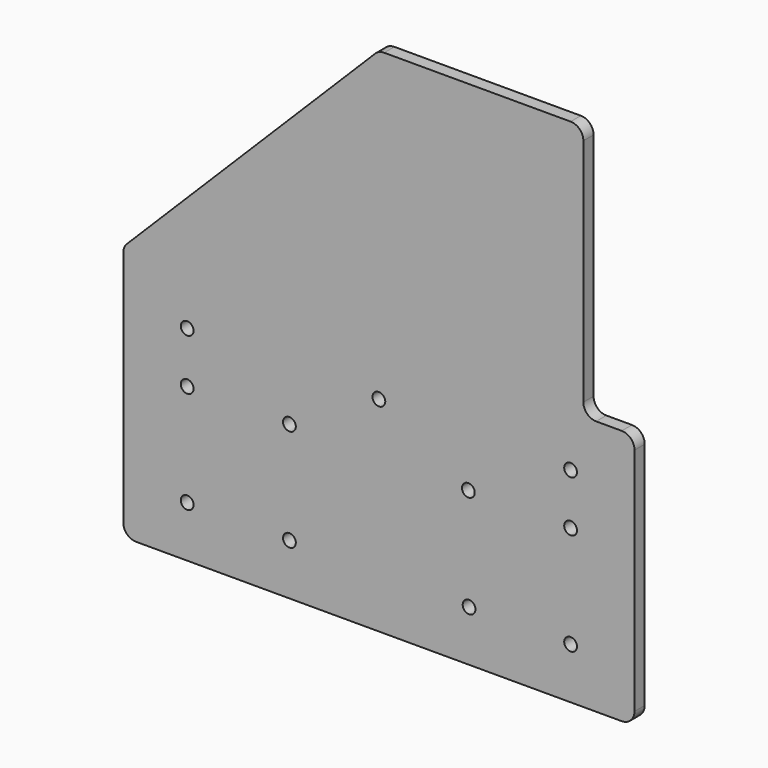
from build123d import *

# Parameters (mm, degrees)
F0_R     = 2.5
F1_DEPTH = 5


with BuildPart() as f1:
    # F0 (on Front) → F1 (new body)
    with BuildSketch(Plane.XZ):
        with BuildLine():
            Line((0, 97.928932), (0, 5))
            ThreePointArc((0, 5), (1.464466, 1.464466), (5, 0))
            Line((5, 0), (195, 0))
            ThreePointArc((195, 0), (198.535534, 1.464466), (200, 5))
            Line((200, 5), (200, 95))
            ThreePointArc((200, 95), (198.535534, 98.535534), (195, 100))
            Line((195, 100), (185, 100))
            ThreePointArc((185, 100), (181.464466, 101.464466), (180, 105))
            Line((180, 105), (180, 195))
            ThreePointArc((180, 195), (178.535534, 198.535534), (175, 200))
            Line((175, 200), (102.071068, 200))
            ThreePointArc((102.071068, 200), (100.157651, 199.619398), (98.535534, 198.535534))
            Line((98.535534, 198.535534), (1.464466, 101.464466))
            ThreePointArc((1.464466, 101.464466), (0.380602, 99.842349), (0, 97.928932))
        make_face()
        with Locations((25, 20)):
            Circle(F0_R, mode=Mode.SUBTRACT)
        with Locations((65, 20)):
            Circle(F0_R, mode=Mode.SUBTRACT)
        with Locations((25, 60)):
            Circle(F0_R, mode=Mode.SUBTRACT)
        with Locations((25, 80)):
            Circle(F0_R, mode=Mode.SUBTRACT)
        with Locations((65, 60)):
            Circle(F0_R, mode=Mode.SUBTRACT)
        with Locations((135.282773, 19.887757)):
            Circle(F0_R, mode=Mode.SUBTRACT)
        with Locations((175, 20)):
            Circle(F0_R, mode=Mode.SUBTRACT)
        with Locations((135, 60)):
            Circle(F0_R, mode=Mode.SUBTRACT)
        with Locations((100, 80)):
            Circle(F0_R, mode=Mode.SUBTRACT)
        with Locations((175, 60)):
            Circle(F0_R, mode=Mode.SUBTRACT)
        with Locations((175, 80)):
            Circle(F0_R, mode=Mode.SUBTRACT)
    extrude(amount=F1_DEPTH)


solid = f1.part
